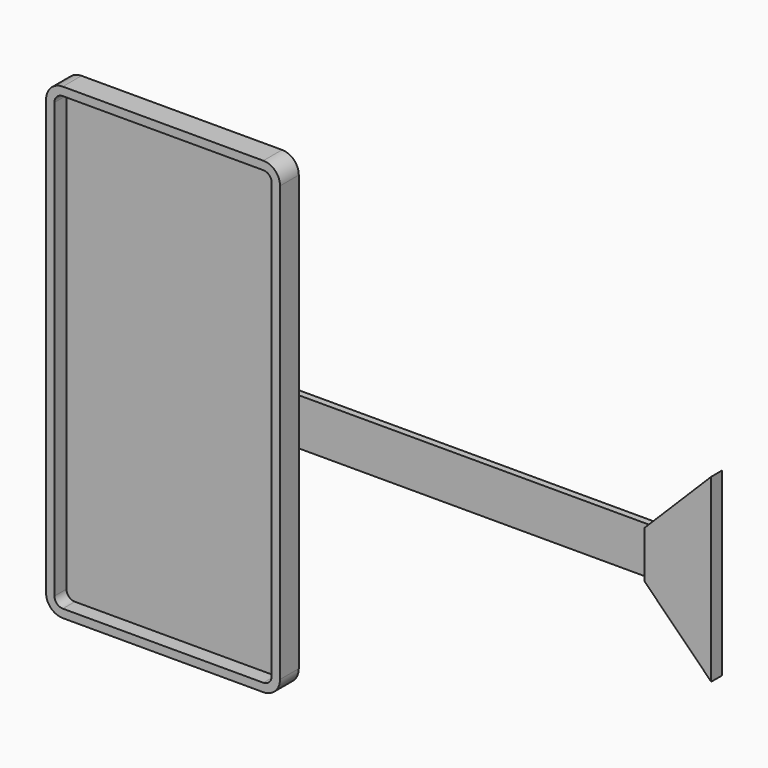
from build123d import *

# Parameters (mm, degrees)
F0_W          = 70
F0_H          = 140
F1_DEPTH      = 7
F2_R          = 5
F3_T          = -2.5
F4_W          = 105
F4_H          = 14
F4_R          = 2.5
F5_DEPTH      = 2
F7_DEPTH      = 2
F7_DEPTH_BACK = 2


with BuildPart() as f1:
    # F0 (on Front) → F1 (new body)
    with BuildSketch(Plane.XZ):
        Rectangle(F0_W, F0_H)
    extrude(amount=F1_DEPTH)

    # F2
    f2_edges = [f1.edges().sort_by_distance(p)[0] for p in [
        (35, -3.5, 70),
        (35, -3.5, -70),
        (-35, -3.5, -70),
        (-35, -3.5, 70),
    ]]
    fillet(f2_edges, radius=F2_R)

    # F3
    f3_openings = [f1.faces().sort_by_distance(p)[0] for p in [
        (0, -7, 0),
    ]]
    offset(amount=F3_T, openings=f3_openings)

    # F4 (on face) → F5 (join)
    with BuildSketch(Plane(origin=(0, 0, 0), x_dir=(-1, 0, 0), z_dir=(0, 1, 0))):
        with Locations((-87.5, 0)):
            Rectangle(F4_W, F4_H)
        with BuildLine():
            Line((-35, -7), (0, -7))
            ThreePointArc((0, -7), (7, 0), (0, 7))
            Line((0, 7), (-35, 7))
            Line((-35, 7), (-35, -7))
        make_face()
        Circle(F4_R, mode=Mode.SUBTRACT)
    extrude(amount=F5_DEPTH)

    # F6 (on face) → F7 (join, two sides)
    with BuildSketch(Plane.XZ) as f7_sk:
        Polygon((160, 27), (140, 7), (140, -7), (160, -27), align=None)
    extrude(amount=-F7_DEPTH)
    extrude(f7_sk.sketch, amount=F7_DEPTH_BACK)


solid = f1.part
